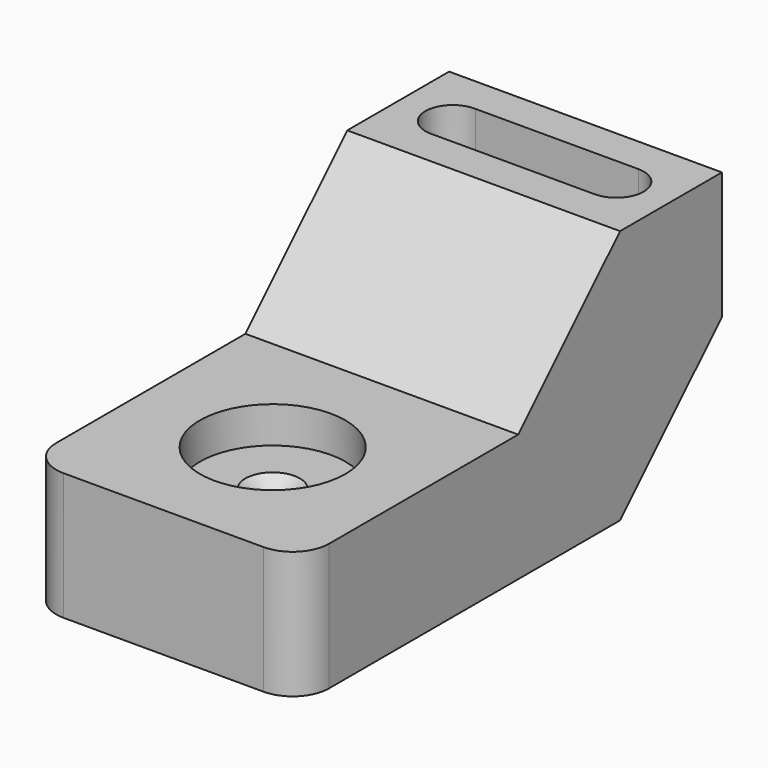
from build123d import *

# Parameters (mm, degrees)
F1_DEPTH       = 76.2
F2_DEPTH       = 76.2
F4_D           = 15.24
F4_DEPTH       = 10.16
F4_CBORE_D     = 40.64
F4_CBORE_DEPTH = 10.16
F4_TIP         = 4.578557917
F5_R           = 10.16
F6_R           = 10.16
F8_DEPTH       = 27.94


with BuildPart() as f1:
    # F0 (on Right) → F1 (new body)
    with BuildSketch(Plane.YZ):
        Polygon((0, 35.56), (0, 0), (35.56, 0), (71.12, 35.56), (71.12, 71.12), (35.56, 71.12), align=None)
    extrude(amount=F1_DEPTH)

    # F2 (add): a face of the model
    f2_faces = [f1.faces().sort_by_distance(p)[0] for p in [
        (38.1, 0, 17.78),
    ]]
    extrude(f2_faces, amount=F2_DEPTH)

    # F4
    with Locations(Plane.XY.offset(35.56)):
        with Locations((38.1, -38.1)):
            CounterBoreHole(F4_D / 2, F4_CBORE_D / 2, F4_CBORE_DEPTH, depth=F4_DEPTH)
            with Locations((0, 0, -(F4_DEPTH + F4_TIP / 2))):  # 118° drill point
                Cone(0, F4_D / 2, F4_TIP, mode=Mode.SUBTRACT)

    # F5
    f5_edges = [f1.edges().sort_by_distance(p)[0] for p in [
        (76.2, -76.2, 17.78),
    ]]
    fillet(f5_edges, radius=F5_R)

    # F6
    f6_edges = [f1.edges().sort_by_distance(p)[0] for p in [
        (0, -76.2, 17.78),
    ]]
    fillet(f6_edges, radius=F6_R)

    # F7 (on face) → F8 (cut)
    with BuildSketch(Plane.XY.offset(71.12)):
        with BuildLine():
            Line((60.9591351744, 60.9599999509), (15.5202967077, 60.9548429896))
            ThreePointArc((15.5202967077, 60.9548429896), (7.6251627493, 53.6204525726), (14.9593915626, 45.7251684914))
            Line((14.9593915626, 45.7251684914), (15.5188972549, 45.7251056264))
            Line((15.5188972549, 45.7251056264), (60.9591438178, 45.7200000481))
            ThreePointArc((60.9591438178, 45.7200000481), (68.5799999863, 53.3400043217), (60.9591351744, 60.9599999509))
        make_face()
    extrude(amount=-F8_DEPTH, mode=Mode.SUBTRACT)


solid = f1.part
